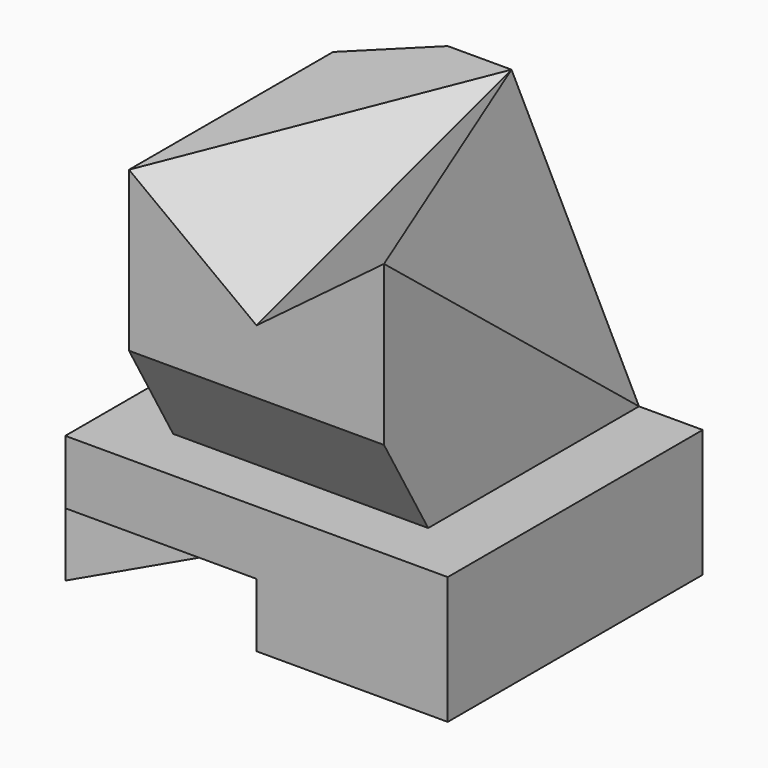
from build123d import *

# Parameters (mm, degrees)
F0_W      = 60
F0_H      = 50
F1_DEPTH  = 60
F2_W      = 10
F2_H      = 40
F3_DEPTH  = 50.001
F4_W      = 10
F4_H      = 40
F5_DEPTH  = 50.001
F7_DEPTH  = 10
F8_SIZE   = 10
F10_DEPTH = 50.001


with BuildPart() as f1:
    # F0 (on Top) → F1 (new body)
    with BuildSketch(Plane.XY):
        with Locations((30, 25)):
            Rectangle(F0_W, F0_H)
    extrude(amount=F1_DEPTH)

    # F2 (on face) → F3 (cut, through all)
    with BuildSketch(Plane.XZ):
        with Locations((5, 40)):
            Rectangle(F2_W, F2_H)
    extrude(amount=-F3_DEPTH, mode=Mode.SUBTRACT)

    # F4 (on face) → F5 (cut, through all)
    with BuildSketch(Plane.XZ):
        with Locations((55, 40)):
            Rectangle(F4_W, F4_H)
    extrude(amount=-F5_DEPTH, mode=Mode.SUBTRACT)

    # F6 (on face) → F7 (cut)
    with BuildSketch(Plane(origin=(0, 0, 0), x_dir=(1, 0, 0), z_dir=(0, 0, -1))):
        Polygon((30, 0), (0, 0), (30, -50), (60, -50), align=None)
    extrude(amount=-F7_DEPTH, mode=Mode.SUBTRACT)

    # F8
    f8_edges = [f1.edges().sort_by_distance(p)[0] for p in [
        (10, 50, 40),
    ]]
    chamfer(f8_edges, length=F8_SIZE)

    # F9 (on face) → F10 (cut, through all)
    with BuildSketch(Plane.YZ.offset(50)):
        Polygon((8.6602540378, 20), (0, 35), (0, 20), align=None)
    extrude(amount=-F10_DEPTH, mode=Mode.SUBTRACT)

    # F13: sweep along a path in F12
    with BuildLine(Plane.YZ.offset(50)) as f13_path:
        Line((50, 60), (0, 45))
    # F11 (on face) → F13 (sweep, cut)
    with BuildSketch(Plane.XZ):
        Polygon((50, 60), (10, 60), (30, 45), align=None)
    sweep(path=f13_path.line, mode=Mode.SUBTRACT)

    # F15: sweep along a path in F14
    with BuildLine(Plane.YZ.offset(50)) as f15_path:
        Line((0, 60), (50, 20))
    # F13_face (on face) → F15 (sweep, cut)
    with BuildSketch(Plane(origin=(43.3333333333, 33.3333333333, 60), x_dir=(1, 0, 0), z_dir=(0, 0, 1))):
        Polygon((-13.3333333333, 16.6666666667), (6.6666666667, -33.3333333333), (6.6666666667, 16.6666666667), align=None)
    sweep(path=f15_path.line, mode=Mode.SUBTRACT)


solid = f1.part
